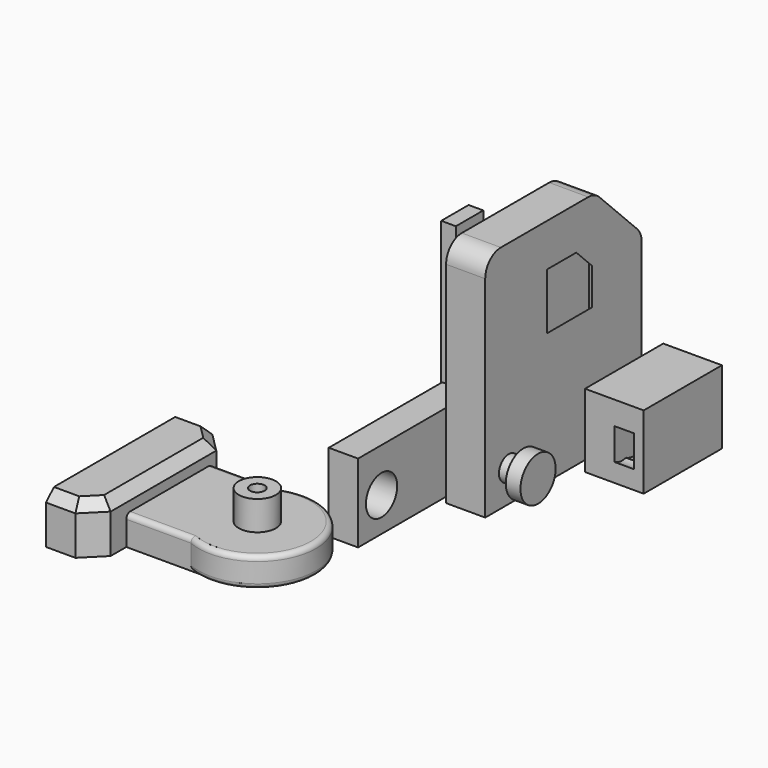
from build123d import *

# Parameters (mm, degrees)
CYLINDER001_R     = 4.5
CYLINDER001_DEPTH = 3
CYLINDER002_R     = 4.5
CYLINDER002_DEPTH = 3
CYLINDER_R        = 2.5
CYLINDER_DEPTH    = 20
CYLINDER009_R     = 4.5
CYLINDER009_DEPTH = 3
CYLINDER008_R     = 4.5
CYLINDER008_DEPTH = 3
CYLINDER005_R     = 2.5
CYLINDER005_DEPTH = 20
BOX001_W          = 2
BOX001_H          = 15
BOX001_DEPTH      = 15
CHAMFER001_SIZE   = 5
FILLET001_R       = 1.75
BOX_W             = 8
BOX_H             = 40
BOX_DEPTH         = 47
CHAMFER_SIZE      = 12
FILLET_R          = 4
CYLINDER010_R     = 4
CYLINDER010_DEPTH = 20
CYLINDER004_R     = 5.3
CYLINDER004_DEPTH = 4
CYLINDER003_R     = 3.3
CYLINDER003_DEPTH = 20
BOX002_W          = 6
BOX002_H          = 32
BOX002_DEPTH      = 16
CHAMFER002_SIZE   = 3
CYLINDER014_R     = 4.2
CYLINDER014_DEPTH = 4
CYLINDER013_R     = 3.8
CYLINDER013_DEPTH = 4
CYLINDER006_R     = 5.3
CYLINDER006_DEPTH = 4
CYLINDER007_R     = 3.3
CYLINDER007_DEPTH = 20
BOX003_W          = 12
BOX003_H          = 20
BOX003_DEPTH      = 15
CYLINDER011_R     = 3
CYLINDER011_DEPTH = 4
CYLINDER012_R     = 3.5
CYLINDER012_DEPTH = 2.5
BOX005_W          = 3
BOX005_H          = 7
BOX005_DEPTH      = 10
BOX004_W          = 9
BOX004_H          = 7
BOX004_DEPTH      = 41
CYLINDER015_R     = 12
CYLINDER015_DEPTH = 6
FILLET002_R       = 1
BOX006_W          = 21
BOX006_H          = 22
BOX006_DEPTH      = 6
FILLET003_R       = 1
BOX007_W          = 10
BOX007_H          = 35
BOX007_DEPTH      = 10
CHAMFER003_SIZE   = 4
CHAMFER004_SIZE   = 2
CYLINDER017_R     = 1.5
CYLINDER017_DEPTH = 6
CYLINDER016_R     = 3.8
CYLINDER016_DEPTH = 6


with BuildPart() as cylinder001:
    # Cylinder001 → Cylinder001 (new body)
    with BuildSketch(Plane(origin=(-10, 11, 7), x_dir=(0, 0, -1), z_dir=(1, 0, 0))):
        Circle(CYLINDER001_R)
    extrude(amount=CYLINDER001_DEPTH)


with BuildPart() as cylinder002:
    # Cylinder002 → Cylinder002 (new body)
    with BuildSketch(Plane(origin=(7, 11, 7), x_dir=(0, 0, -1), z_dir=(1, 0, 0))):
        Circle(CYLINDER002_R)
    extrude(amount=CYLINDER002_DEPTH)


with BuildPart() as fusion:
    # Cylinder → Cylinder (new body)
    with BuildSketch(Plane(origin=(-10, 11, 7), x_dir=(0, 0, -1), z_dir=(1, 0, 0))):
        Circle(CYLINDER_R)
    extrude(amount=CYLINDER_DEPTH)

    # Fusion: union Cylinder001, Cylinder002
    add(cylinder001.part)
    add(cylinder002.part)


with BuildPart() as cylinder009:
    # Cylinder009 → Cylinder009 (new body)
    with BuildSketch(Plane(origin=(-10, 11, 7), x_dir=(0, 0, -1), z_dir=(1, 0, 0))):
        Circle(CYLINDER009_R)
    extrude(amount=CYLINDER009_DEPTH)


with BuildPart() as cylinder008:
    # Cylinder008 → Cylinder008 (new body)
    with BuildSketch(Plane(origin=(7, 11, 7), x_dir=(0, 0, -1), z_dir=(1, 0, 0))):
        Circle(CYLINDER008_R)
    extrude(amount=CYLINDER008_DEPTH)


with BuildPart() as fusion002:
    # Cylinder005 → Cylinder005 (new body)
    with BuildSketch(Plane(origin=(-10, 11, 7), x_dir=(0, 0, -1), z_dir=(1, 0, 0))):
        Circle(CYLINDER005_R)
    extrude(amount=CYLINDER005_DEPTH)

    # Fusion002: union Cylinder009, Cylinder008
    add(cylinder009.part)
    add(cylinder008.part)


with BuildPart() as fusion002_1:
    # Fusion002 placement: moved
    add(fusion002.part.moved(Location((0, 28, 0))))


with BuildPart() as fillet001:
    # Box001 → Box001 (new body)
    with BuildSketch(Plane.XY.offset(0.5)):
        with Locations((1, 7.5)):
            Rectangle(BOX001_W, BOX001_H)
    extrude(amount=BOX001_DEPTH)

    # Chamfer001
    chamfer001_edges = [fillet001.edges().sort_by_distance(p)[0] for p in [
        (1, 15, 15.5),
    ]]
    chamfer(chamfer001_edges, length=CHAMFER001_SIZE)

    # Fillet001
    fillet001_edges = [fillet001.edges().sort_by_distance(p)[0] for p in [
        (2, 5, 15.5),
        (2, 12.5, 13),
        (2, 0, 8),
        (2, 15, 5.5),
        (2, 7.5, 0.5),
    ]]
    fillet(fillet001_edges, radius=FILLET001_R)


with BuildPart() as fillet001_1:
    # Fillet001 placement: moved
    add(fillet001.part.moved(Location((2, 19, 25))))


with BuildPart() as part_mirroring:
    # Part__Mirroring: instance of Fillet001
    add(fillet001_1.part.mirror(Plane(origin=(0, 0, 0), x_dir=(0, -1, 0), z_dir=(1, 0, 0))))


with BuildPart() as fusion004:
    # Box → Box (new body)
    with BuildSketch(Plane(origin=(-4, 5, 0.5), x_dir=(1, 0, 0), z_dir=(0, 0, 1))):
        with Locations((4, 20)):
            Rectangle(BOX_W, BOX_H)
    extrude(amount=BOX_DEPTH)

    # Chamfer
    chamfer_edges = [fusion004.edges().sort_by_distance(p)[0] for p in [
        (0, 45, 47.5),
    ]]
    chamfer(chamfer_edges, length=CHAMFER_SIZE)

    # Fillet
    fillet_edges = [fusion004.edges().sort_by_distance(p)[0] for p in [
        (0, 33, 47.5),
        (0, 5, 47.5),
        (0, 45, 35.5),
    ]]
    fillet(fillet_edges, radius=FILLET_R)

    # Cut: cut Fillet001
    add(fillet001_1.part, mode=Mode.SUBTRACT)

    # Cut001: cut Part__Mirroring
    add(part_mirroring.part, mode=Mode.SUBTRACT)

    # Fusion004: union Fusion, Fusion002
    add(fusion.part)
    add(fusion002_1.part)


with BuildPart() as cylinder010:
    # Cylinder010 → Cylinder010 (new body)
    with BuildSketch(Plane(origin=(0, -9, 7), x_dir=(0, 0, -1), z_dir=(1, 0, 0))):
        Circle(CYLINDER010_R)
    extrude(amount=CYLINDER010_DEPTH)


with BuildPart() as cylinder004:
    # Cylinder004 → Cylinder004 (new body)
    with BuildSketch(Plane(origin=(-10, 11, 7), x_dir=(0, 0, -1), z_dir=(1, 0, 0))):
        Circle(CYLINDER004_R)
    extrude(amount=CYLINDER004_DEPTH)


with BuildPart() as fusion001:
    # Cylinder003 → Cylinder003 (new body)
    with BuildSketch(Plane(origin=(-10, 11, 7), x_dir=(0, 0, -1), z_dir=(1, 0, 0))):
        Circle(CYLINDER003_R)
    extrude(amount=CYLINDER003_DEPTH)

    # Fusion001: union Cylinder004
    add(cylinder004.part)


with BuildPart() as cut005:
    # Box002 → Box002 (new body)
    with BuildSketch(Plane(origin=(6, -15, 0), x_dir=(1, 0, 0), z_dir=(0, 0, 1))):
        with Locations((3, 16)):
            Rectangle(BOX002_W, BOX002_H)
    extrude(amount=BOX002_DEPTH)

    # Chamfer002
    chamfer002_edges = [cut005.edges().sort_by_distance(p)[0] for p in [
        (9, 17, 0),
        (9, 17, 16),
    ]]
    chamfer(chamfer002_edges, length=CHAMFER002_SIZE)

    # Cut004: cut Fusion001
    add(fusion001.part, mode=Mode.SUBTRACT)

    # Cut005: cut Cylinder010
    add(cylinder010.part, mode=Mode.SUBTRACT)


with BuildPart() as part_mirroring001:
    # Part__Mirroring001: instance of Cut005
    add(cut005.part.mirror(Plane(origin=(0, 0, 0), x_dir=(0, -1, 0), z_dir=(1, 0, 0))))


with BuildPart() as cylinder014:
    # Cylinder014 → Cylinder014 (new body)
    with BuildSketch(Plane(origin=(12, 33, 7), x_dir=(0, 0, -1), z_dir=(1, 0, 0))):
        Circle(CYLINDER014_R)
    extrude(amount=CYLINDER014_DEPTH)


with BuildPart() as fusion005:
    # Cylinder013 → Cylinder013 (new body)
    with BuildSketch(Plane(origin=(12, 30, 7), x_dir=(0, 0, -1), z_dir=(1, 0, 0))):
        Circle(CYLINDER013_R)
    extrude(amount=CYLINDER013_DEPTH)

    # Fusion005: union Cylinder014
    add(cylinder014.part)


with BuildPart() as cylinder006:
    # Cylinder006 → Cylinder006 (new body)
    with BuildSketch(Plane(origin=(-10, 11, 7), x_dir=(0, 0, -1), z_dir=(1, 0, 0))):
        Circle(CYLINDER006_R)
    extrude(amount=CYLINDER006_DEPTH)


with BuildPart() as fusion003:
    # Cylinder007 → Cylinder007 (new body)
    with BuildSketch(Plane(origin=(-10, 11, 7), x_dir=(0, 0, -1), z_dir=(1, 0, 0))):
        Circle(CYLINDER007_R)
    extrude(amount=CYLINDER007_DEPTH)

    # Fusion003: union Cylinder006
    add(cylinder006.part)


with BuildPart() as fusion003_1:
    # Fusion003 placement: moved
    add(fusion003.part.moved(Location((0, 28, 0))))


with BuildPart() as cut006:
    # Box003 → Box003 (new body)
    with BuildSketch(Plane(origin=(6, 28, 0), x_dir=(1, 0, 0), z_dir=(0, 0, 1))):
        with Locations((6, 10)):
            Rectangle(BOX003_W, BOX003_H)
    extrude(amount=BOX003_DEPTH)

    # Cut003: cut Fusion003
    add(fusion003_1.part, mode=Mode.SUBTRACT)

    # Cut006: cut Fusion005
    add(fusion005.part, mode=Mode.SUBTRACT)


with BuildPart() as cylinder011:
    # Cylinder011 → Cylinder011 (new body)
    with BuildSketch(Plane(origin=(12, 30, 7), x_dir=(0, 0, -1), z_dir=(1, 0, 0))):
        Circle(CYLINDER011_R)
    extrude(amount=CYLINDER011_DEPTH)


with BuildPart() as cylinder012:
    # Cylinder012 → Cylinder012 (new body)
    with BuildSketch(Plane(origin=(12, 32, 7), x_dir=(0, 0, -1), z_dir=(1, 0, 0))):
        Circle(CYLINDER012_R)
    extrude(amount=CYLINDER012_DEPTH)


with BuildPart() as cube005:
    # Box005 → Box005 (new body)
    with BuildSketch(Plane(origin=(11, 20, 31), x_dir=(1, 0, 0), z_dir=(0, 0, 1))):
        with Locations((1.5, 3.5)):
            Rectangle(BOX005_W, BOX005_H)
    extrude(amount=BOX005_DEPTH)


with BuildPart() as fusion006:
    # Box004 → Box004 (new body)
    with BuildSketch(Plane(origin=(8, 20, 0), x_dir=(1, 0, 0), z_dir=(0, 0, 1))):
        with Locations((4.5, 3.5)):
            Rectangle(BOX004_W, BOX004_H)
    extrude(amount=BOX004_DEPTH)

    # Cut002: cut Cube005
    add(cube005.part, mode=Mode.SUBTRACT)

    # Fusion006: union Cylinder011, Cylinder012
    add(cylinder011.part)
    add(cylinder012.part)


with BuildPart() as part_mirroring002:
    # Part__Mirroring002: instance of Fusion006
    add(fusion006.part.mirror(Plane(origin=(0, 0, 0), x_dir=(0, -1, 0), z_dir=(1, 0, 0))))


with BuildPart() as fillet002:
    # Cylinder015 → Cylinder015 (new body)
    with BuildSketch(Plane(origin=(17, -27, 0), x_dir=(1, 0, 0), z_dir=(0, 0, 1))):
        Circle(CYLINDER015_R)
    extrude(amount=CYLINDER015_DEPTH)

    # Fillet002
    fillet002_edges = [fillet002.edges().sort_by_distance(p)[0] for p in [
        (5, -27, 6),
        (5, -27, 0),
    ]]
    fillet(fillet002_edges, radius=FILLET002_R)


with BuildPart() as fillet003:
    # Box006 → Box006 (new body)
    with BuildSketch(Plane(origin=(17, -38, 0), x_dir=(1, 0, 0), z_dir=(0, 0, 1))):
        with Locations((10.5, 11)):
            Rectangle(BOX006_W, BOX006_H)
    extrude(amount=BOX006_DEPTH)

    # Fillet003
    fillet003_edges = [fillet003.edges().sort_by_distance(p)[0] for p in [
        (27.5, -38, 6),
        (27.5, -16, 6),
    ]]
    fillet(fillet003_edges, radius=FILLET003_R)


with BuildPart() as chamfer004:
    # Box007 → Box007 (new body)
    with BuildSketch(Plane(origin=(35, -46, 0), x_dir=(1, 0, 0), z_dir=(0, 0, 1))):
        with Locations((5, 17.5)):
            Rectangle(BOX007_W, BOX007_H)
    extrude(amount=BOX007_DEPTH)

    # Chamfer003
    chamfer003_edges = [chamfer004.edges().sort_by_distance(p)[0] for p in [
        (35, -46, 5),
        (35, -11, 5),
    ]]
    chamfer(chamfer003_edges, length=CHAMFER003_SIZE)

    # Chamfer004
    chamfer004_edges = [chamfer004.edges().sort_by_distance(p)[0] for p in [
        (35, -28.5, 10),
        (37, -44, 10),
        (37, -13, 10),
        (42, -46, 10),
        (42, -11, 10),
    ]]
    chamfer(chamfer004_edges, length=CHAMFER004_SIZE)


with BuildPart() as cylinder017:
    # Cylinder017 → Cylinder017 (new body)
    with BuildSketch(Plane(origin=(17, -27, 6), x_dir=(1, 0, 0), z_dir=(0, 0, 1))):
        Circle(CYLINDER017_R)
    extrude(amount=CYLINDER017_DEPTH)


with BuildPart() as fusion007:
    # Cylinder016 → Cylinder016 (new body)
    with BuildSketch(Plane(origin=(17, -27, 6), x_dir=(1, 0, 0), z_dir=(0, 0, 1))):
        Circle(CYLINDER016_R)
    extrude(amount=CYLINDER016_DEPTH)

    # Cut007: cut Cylinder017
    add(cylinder017.part, mode=Mode.SUBTRACT)

    # Fusion007: union Fillet002, Fillet003, Chamfer004
    add(fillet002.part)
    add(fillet003.part)
    add(chamfer004.part)


with BuildPart() as part_mirroring003:
    # Part__Mirroring003: instance of Fusion007
    add(fusion007.part.mirror(Plane(origin=(0, 0, 0), x_dir=(0, -1, 0), z_dir=(1, 0, 0))))


solid = Compound([fusion004.part, part_mirroring001.part, cut006.part, part_mirroring002.part, part_mirroring003.part])
